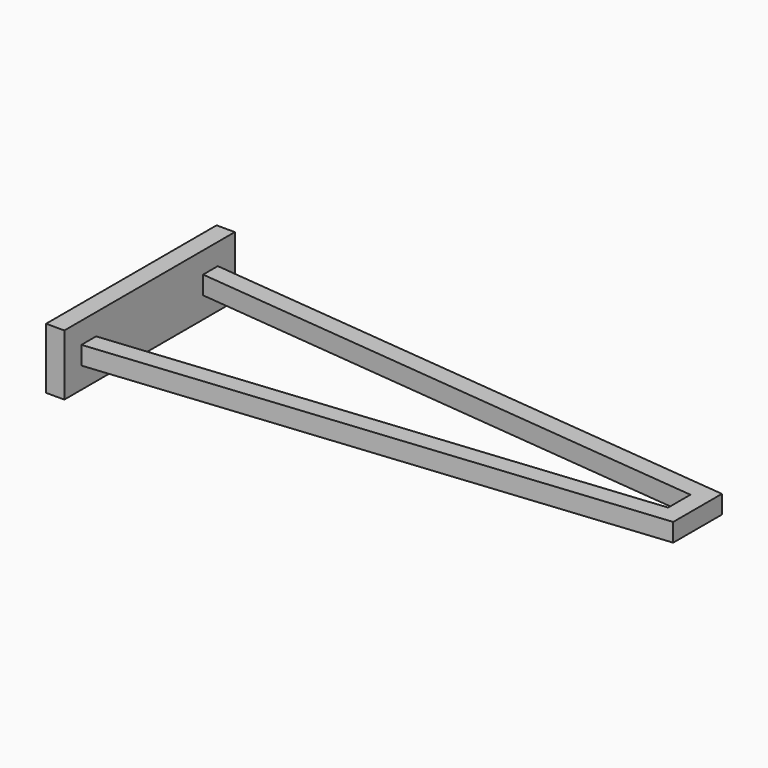
from build123d import *

# Parameters (mm, degrees)
F0_W     = 35
F0_H     = 10
F1_DEPTH = 3
F3_DEPTH = 1.5


with BuildPart() as f1:
    # F0 (on Right) → F1 (new body)
    with BuildSketch(Plane.YZ):
        Rectangle(F0_W, F0_H)
    extrude(amount=F1_DEPTH)

    # F2 (on Top) → F3 (join, symmetric)
    with BuildSketch(Plane.XY):
        Polygon((3, -10.985037), (3, -14), (93, -5), (93, 5), (3, 14), (3, 10.985037), (90, 2.285037), (90, -2.285037), align=None)
    extrude(amount=F3_DEPTH, both=True)


solid = f1.part
